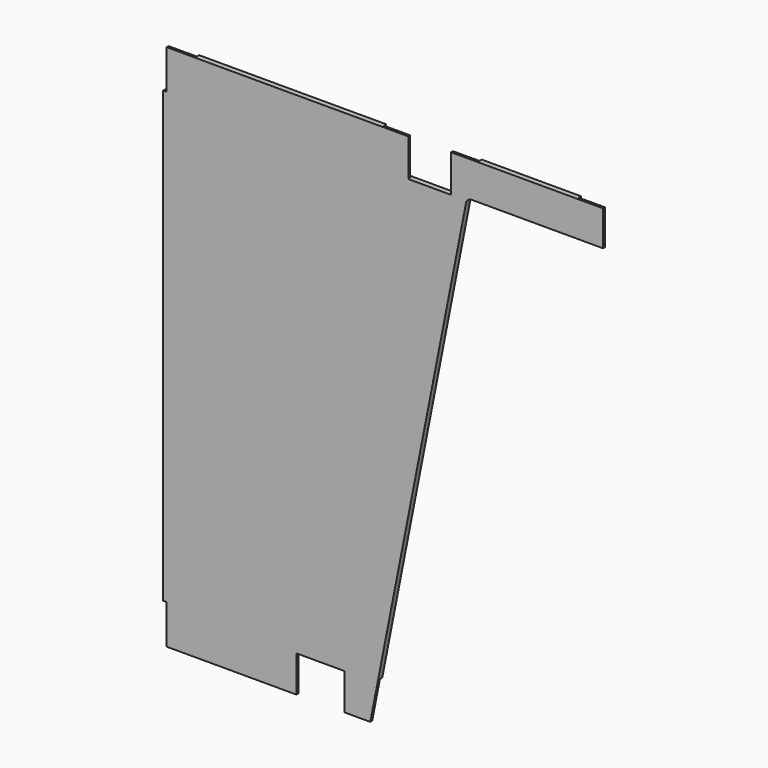
from build123d import *

# Parameters (mm, degrees)
F0_W     = 48
F0_H     = 67
F0_W_2   = 45
F0_H_2   = 60
F0_H_3   = 64
F0_W_3   = 169
F1_DEPTH = 9
F2_DEPTH = 5


with BuildPart() as f1:
    # F0 (on Front) → F1 (new body)
    with BuildSketch(Plane.XZ):
        with Locations((30, 866.5)):
            Rectangle(F0_W, F0_H)
        with Locations((727.5, 870)):
            Rectangle(F0_W_2, F0_H_2)
        with Locations((395.5, 868)):
            Rectangle(F0_W_2, F0_H_3)
        with Locations((620.5, 870)):
            Rectangle(F0_W_3, F0_H_2)
        with BuildLine():
            Line((6, 833), (0, 833))
            Line((0, 833), (0, 67))
            Line((0, 67), (6, 67))
            Line((6, 67), (54, 67))
            Line((54, 67), (54, 0))
            Line((54, 0), (172.2699177442, 0))
            Line((172.2699177442, 0), (172.2699177442, 67))
            Line((172.2699177442, 67), (227.2699177442, 67))
            Line((227.2699177442, 67), (227.2699177442, 62))
            Line((227.2699177442, 62), (309.2699177442, 62))
            Line((309.2699177442, 62), (309.2699177442, 67))
            Line((309.2699177442, 67), (366.4091028765, 67))
            Line((366.4091028765, 67), (516.4163196705, 831.9244168488))
            ThreePointArc((516.4163196705, 831.9244168488), (517.0927147816, 834.0645927345), (518.2294037827, 836))
            Line((518.2294037827, 836), (491, 836))
            Line((491, 836), (418, 836))
            Line((418, 836), (373, 836))
            Line((373, 836), (373, 900))
            Line((373, 900), (54, 900))
            Line((54, 900), (54, 833))
            Line((54, 833), (6, 833))
        make_face()
        Polygon((309.2699177442, 62), (309.2699177442, 0), (353.2699177442, 0), (366.4091028765, 67), (309.2699177442, 67), align=None)
        with BuildLine():
            Line((536, 900), (491, 900))
            Line((491, 900), (491, 836))
            Line((491, 836), (518.2294037827, 836))
            ThreePointArc((518.2294037827, 836), (521.7572678277, 838.94427191), (526.2294037827, 840))
            Line((526.2294037827, 840), (536, 840))
            Line((536, 840), (536, 900))
        make_face()
        with BuildLine():
            Line((6, 833), (0, 833))
            Line((0, 833), (0, 67))
            Line((0, 67), (6, 67))
            Line((6, 67), (54, 67))
            Line((54, 67), (54, 0))
            Line((54, 0), (172.2699177442, 0))
            Line((172.2699177442, 0), (172.2699177442, 67))
            Line((172.2699177442, 67), (227.2699177442, 67))
            Line((227.2699177442, 67), (227.2699177442, 62))
            Line((227.2699177442, 62), (309.2699177442, 62))
            Line((309.2699177442, 62), (309.2699177442, 67))
            Line((309.2699177442, 67), (366.4091028765, 67))
            Line((366.4091028765, 67), (516.4163196705, 831.9244168488))
            ThreePointArc((516.4163196705, 831.9244168488), (517.0927147816, 834.0645927345), (518.2294037827, 836))
            Line((518.2294037827, 836), (491, 836))
            Line((491, 836), (418, 836))
            Line((418, 836), (373, 836))
            Line((373, 836), (373, 900))
            Line((373, 900), (54, 900))
            Line((54, 900), (54, 833))
            Line((54, 833), (6, 833))
        make_face()
        Polygon((172.2699177442, 67), (172.2699177442, 0), (227.2699177442, 0), (227.2699177442, 62), (227.2699177442, 67), align=None)
        with Locations((30, 33.5)):
            Rectangle(F0_W, F0_H)
    extrude(amount=F1_DEPTH)

    # F0 (on Front) → F2 (cut)
    with BuildSketch(Plane.XZ):
        with Locations((30, 866.5)):
            Rectangle(F0_W, F0_H)
        with Locations((727.5, 870)):
            Rectangle(F0_W_2, F0_H_2)
        with Locations((395.5, 868)):
            Rectangle(F0_W_2, F0_H_3)
        with BuildLine():
            Line((536, 900), (491, 900))
            Line((491, 900), (491, 836))
            Line((491, 836), (518.2294037827, 836))
            ThreePointArc((518.2294037827, 836), (521.7572678277, 838.94427191), (526.2294037827, 840))
            Line((526.2294037827, 840), (536, 840))
            Line((536, 840), (536, 900))
        make_face()
        Polygon((309.2699177442, 62), (309.2699177442, 0), (353.2699177442, 0), (366.4091028765, 67), (309.2699177442, 67), align=None)
        Polygon((172.2699177442, 67), (172.2699177442, 0), (227.2699177442, 0), (227.2699177442, 62), (227.2699177442, 67), align=None)
        with Locations((30, 33.5)):
            Rectangle(F0_W, F0_H)
    extrude(amount=F2_DEPTH, mode=Mode.SUBTRACT)


solid = f1.part
